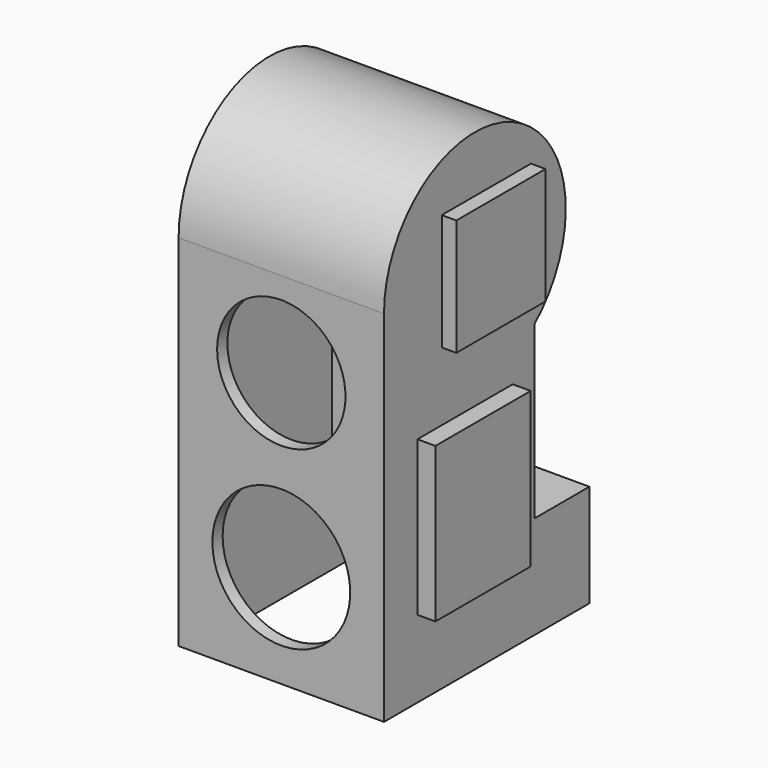
from build123d import *

# Parameters (mm, degrees)
F1_DEPTH  = 12
F2_T      = -1.5
F3_R      = 5
F4_DEPTH  = 5
F5_R      = 7.5
F5_R_2    = 8.0533004945
F6_DEPTH  = 5
F10_START = 33.8
F9_W      = 13.0263166502
F9_H      = 13.6184208095
F10_DEPTH = 3.9
F12_START = 32.7
F11_W     = 13.9144747518
F11_H     = 18.0592117831
F12_DEPTH = 5.4


with BuildPart() as f1:
    # F0 (on Right) → F1 (new body, symmetric)
    with BuildSketch(Plane.YZ):
        with BuildLine():
            Line((0, 42), (0, 0))
            Line((0, 0), (30, 0))
            Line((30, 0), (30, 12))
            Line((30, 12), (22, 12))
            Line((22, 12), (22, 32))
            ThreePointArc((22, 32), (18.7650208971, 54.0830459736), (0, 42))
        make_face()
    extrude(amount=F1_DEPTH, both=True)

    # F2
    f2_openings = [f1.faces().sort_by_distance(p)[0] for p in [
        (0, 15, 0),
    ]]
    offset(amount=F2_T, openings=f2_openings, kind=Kind.INTERSECTION)

    # F3 (on face) → F4 (cut)
    with BuildSketch(Plane.YZ.offset(12)):
        with Locations((13.2727272727, 42)):
            Circle(F3_R)
    extrude(amount=-F4_DEPTH, mode=Mode.SUBTRACT)

    # F5 (on face) → F6 (cut)
    with BuildSketch(Plane.XZ):
        with Locations((0, 32)):
            Circle(F5_R)
        with Locations((0, 12)):
            Circle(F5_R_2)
    extrude(amount=-F6_DEPTH, mode=Mode.SUBTRACT)


with BuildPart() as f7_1:
    # F7: instance of F1
    add(f1.part.mirror(Plane(origin=(12, 12.8367440459, 24.8577602778), x_dir=(0, 1, 0), z_dir=(1, 0, 0))))

    # F11 (on Right) → F12 (join)
    with BuildSketch(Plane.YZ.offset(F12_START)):
        with Locations((11.8421067018, 18.0592113174)):
            Rectangle(F11_W, F11_H)
    extrude(amount=F12_DEPTH)


with BuildPart() as f10:
    # F9 (on Right) → F10 (new body)
    with BuildSketch(Plane.YZ.offset(F10_START)):
        with Locations((14.9506586604, 41.8914500624)):
            Rectangle(F9_W, F9_H)
    extrude(amount=F10_DEPTH)


solid = Compound([f7_1.part, f10.part])
